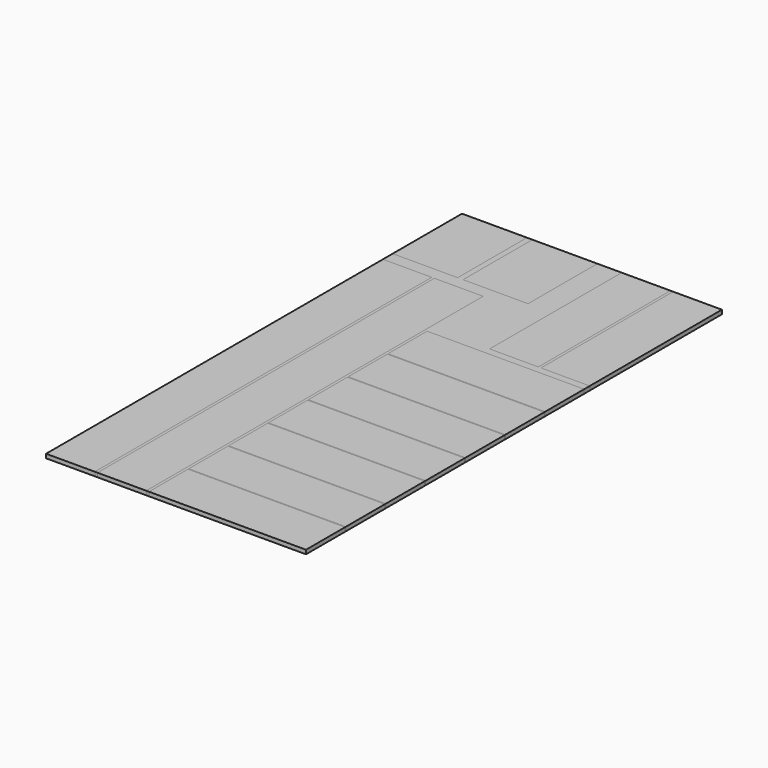
from build123d import *

# Parameters (mm, degrees)
F0_W     = 12.7
F0_H     = 1974.85
F0_H_2   = 774.7
F0_W_2   = 736.6
F0_H_3   = 5.08
F1_DEPTH = 19.05
F0_W_3   = 228.6
F2_DEPTH = 19.05
F0_H_4   = 228.6
F0_W_4   = 304.8
F0_H_5   = 406.4


with BuildPart() as f1:
    # F0 (on Top) → F1 (new body)
    with BuildSketch(Plane.XY):
        Polygon((0, 2032), (0, 1974.85), (228.6, 1974.85), (241.3, 1974.85), (469.9, 1974.85), (469.9, 0), (482.6, 0), (482.6, 228.6), (482.6, 233.68), (482.6, 462.28), (482.6, 467.36), (482.6, 695.96), (482.6, 701.04), (482.6, 929.64), (482.6, 934.72), (482.6, 1163.32), (482.6, 1168.4), (482.6, 1397), (482.6, 1402.08), (482.6, 1630.68), (1219.2, 1630.68), (1219.2, 1663.7), (990.6, 1663.7), (977.9, 1663.7), (749.3, 1663.7), (749.3, 2438.4), (679.45, 2438.4), (635, 2438.4), (635, 2032), (330.2, 2032), (330.2, 2438.4), (304.8, 2438.4), (304.8, 2032), align=None)
        with Locations((234.95, 987.425)):
            Rectangle(F0_W, F0_H)
        with Locations((984.25, 2051.05)):
            Rectangle(F0_W, F0_H_2)
        with Locations((850.9, 1399.54)):
            Rectangle(F0_W_2, F0_H_3)
        with Locations((850.9, 1165.86)):
            Rectangle(F0_W_2, F0_H_3)
        with Locations((850.9, 932.18)):
            Rectangle(F0_W_2, F0_H_3)
        with Locations((850.9, 698.5)):
            Rectangle(F0_W_2, F0_H_3)
        with Locations((850.9, 464.82)):
            Rectangle(F0_W_2, F0_H_3)
        with Locations((850.9, 231.14)):
            Rectangle(F0_W_2, F0_H_3)
    extrude(amount=F1_DEPTH)


with BuildPart() as f2:
    # F0 (on Top) → F2 (new body)
    with BuildSketch(Plane.XY):
        with Locations((114.3, 987.425)):
            Rectangle(F0_W_3, F0_H)
    extrude(amount=F2_DEPTH)


with BuildPart() as f2b:
    # F0 (on Top) → F2, piece 2 (new body)
    with BuildSketch(Plane.XY):
        with Locations((355.6, 987.425)):
            Rectangle(F0_W_3, F0_H)
    extrude(amount=F2_DEPTH)


with BuildPart() as f2c:
    # F0 (on Top) → F2, piece 3 (new body)
    with BuildSketch(Plane.XY):
        with Locations((850.9, 1516.38)):
            Rectangle(F0_W_2, F0_H_4)
    extrude(amount=F2_DEPTH)


with BuildPart() as f2d:
    # F0 (on Top) → F2, piece 4 (new body)
    with BuildSketch(Plane.XY):
        with Locations((850.9, 1282.7)):
            Rectangle(F0_W_2, F0_H_4)
    extrude(amount=F2_DEPTH)


with BuildPart() as f2e:
    # F0 (on Top) → F2, piece 5 (new body)
    with BuildSketch(Plane.XY):
        with Locations((850.9, 1049.02)):
            Rectangle(F0_W_2, F0_H_4)
    extrude(amount=F2_DEPTH)


with BuildPart() as f2f:
    # F0 (on Top) → F2, piece 6 (new body)
    with BuildSketch(Plane.XY):
        with Locations((850.9, 815.34)):
            Rectangle(F0_W_2, F0_H_4)
    extrude(amount=F2_DEPTH)


with BuildPart() as f2g:
    # F0 (on Top) → F2, piece 7 (new body)
    with BuildSketch(Plane.XY):
        with Locations((850.9, 581.66)):
            Rectangle(F0_W_2, F0_H_4)
    extrude(amount=F2_DEPTH)


with BuildPart() as f2h:
    # F0 (on Top) → F2, piece 8 (new body)
    with BuildSketch(Plane.XY):
        with Locations((850.9, 347.98)):
            Rectangle(F0_W_2, F0_H_4)
    extrude(amount=F2_DEPTH)


with BuildPart() as f2i:
    # F0 (on Top) → F2, piece 9 (new body)
    with BuildSketch(Plane.XY):
        with Locations((850.9, 114.3)):
            Rectangle(F0_W_2, F0_H_4)
    extrude(amount=F2_DEPTH)


with BuildPart() as f2j:
    # F0 (on Top) → F2, piece 10 (new body)
    with BuildSketch(Plane.XY):
        with Locations((863.6, 2051.05)):
            Rectangle(F0_W_3, F0_H_2)
    extrude(amount=F2_DEPTH)


with BuildPart() as f2k:
    # F0 (on Top) → F2, piece 11 (new body)
    with BuildSketch(Plane.XY):
        with Locations((1104.9, 2051.05)):
            Rectangle(F0_W_3, F0_H_2)
    extrude(amount=F2_DEPTH)


with BuildPart() as f2l:
    # F0 (on Top) → F2, piece 12 (new body)
    with BuildSketch(Plane.XY):
        with Locations((152.4, 2235.2)):
            Rectangle(F0_W_4, F0_H_5)
    extrude(amount=F2_DEPTH)


with BuildPart() as f2m:
    # F0 (on Top) → F2, piece 13 (new body)
    with BuildSketch(Plane.XY):
        Polygon((374.65, 2438.4), (330.2, 2438.4), (330.2, 2032), (635, 2032), (635, 2438.4), align=None)
    extrude(amount=F2_DEPTH)


solid = Compound([f1.part, f2.part, f2b.part, f2c.part, f2d.part, f2e.part, f2f.part, f2g.part, f2h.part, f2i.part, f2j.part, f2k.part, f2l.part, f2m.part])
